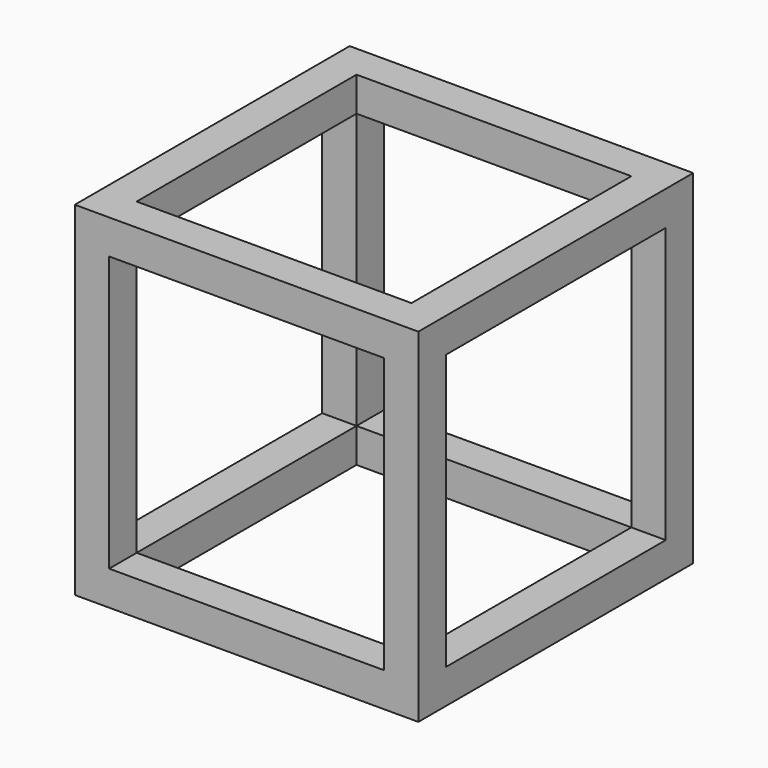
from build123d import *

# Parameters (mm, degrees)
F0_W     = 100
F0_H     = 100
F1_DEPTH = 50
F2_W     = 80
F2_H     = 80
F3_DEPTH = 100
F4_W     = 80
F4_H     = 80
F5_DEPTH = 100
F6_W     = 80
F6_H     = 80
F7_DEPTH = 100


with BuildPart() as f1:
    # F0 (on Right) → F1 (new body, symmetric)
    with BuildSketch(Plane.YZ):
        with Locations((3.263638, 3.22727)):
            Rectangle(F0_W, F0_H)
    extrude(amount=F1_DEPTH, both=True)

    # F2 (on face) → F3 (cut)
    with BuildSketch(Plane.XZ.offset(46.736362)):
        with Locations((0, 3.22727)):
            Rectangle(F2_W, F2_H)
    extrude(amount=-F3_DEPTH, mode=Mode.SUBTRACT)

    # F4 (on face) → F5 (cut)
    with BuildSketch(Plane.XY.offset(53.22727)):
        with Locations((0, 3.263638)):
            Rectangle(F4_W, F4_H)
    extrude(amount=-F5_DEPTH, mode=Mode.SUBTRACT)

    # F6 (on face) → F7 (cut)
    with BuildSketch(Plane.YZ.offset(50)):
        with Locations((3.263638, 3.22727)):
            Rectangle(F6_W, F6_H)
    extrude(amount=-F7_DEPTH, mode=Mode.SUBTRACT)


solid = f1.part
